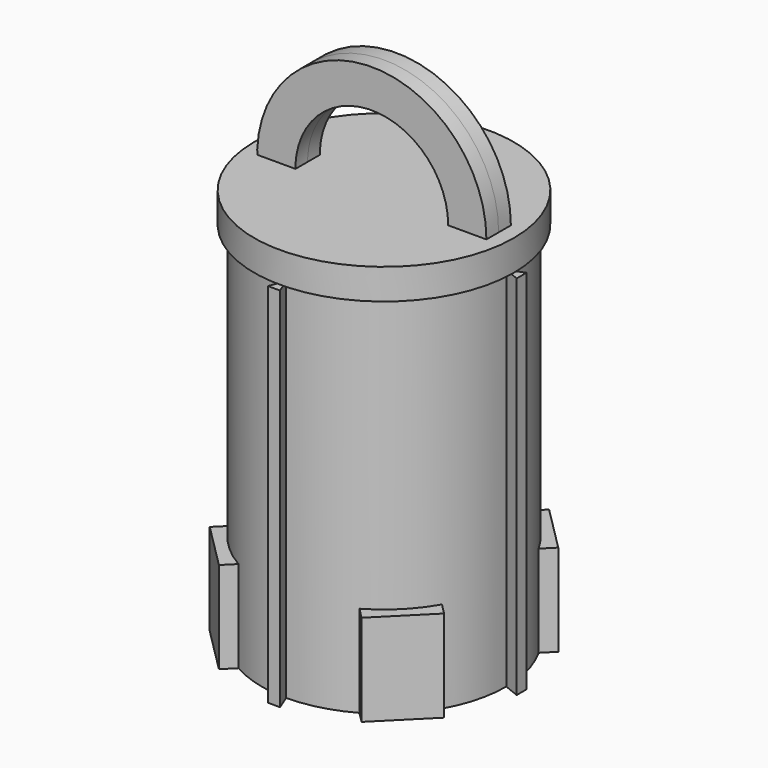
from build123d import *

# Parameters (mm, degrees)
F1_DEPTH  = 152.4
F4_DEPTH  = 38.1
F2_R      = 53.975
F5_DEPTH  = 12.7
F7_DEPTH  = 6.35
F10_DEPTH = 152.4


with BuildPart() as f1:
    # F0 (on Top) → F1 (new body)
    with BuildSketch(Plane.XY):
        with BuildLine():
            Line((0, 0), (50.8, 0))
            ThreePointArc((50.8, 0), (35.921024, 35.921024), (0, 50.8))
            Line((0, 50.8), (0, 0))
        make_face()
        with BuildLine():
            ThreePointArc((-50.8, 0), (-35.921024, -35.921024), (0, -50.8))
            Line((0, -50.8), (0, 0))
            Line((0, 0), (-50.8, 0))
        make_face()
        with BuildLine():
            ThreePointArc((0, -50.8), (35.921024, -35.921024), (50.8, 0))
            Line((50.8, 0), (0, 0))
            Line((0, 0), (0, -50.8))
        make_face()
        with BuildLine():
            Line((0, 0), (0, 50.8))
            ThreePointArc((0, 50.8), (-35.921024, 35.921024), (-50.8, 0))
            Line((-50.8, 0), (0, 0))
        make_face()
    extrude(amount=F1_DEPTH)

    # F3 (on Top) → F4 (join)
    with BuildSketch(Plane.XY):
        Polygon((-39.546579, 20.496579), (-20.496579, 39.546579), (-29.634845, 48.684845), (-48.684845, 29.634845), align=None)
        Polygon((29.634845, 48.684845), (19.783476, 38.833476), (38.833476, 19.783476), (48.684845, 29.634845), align=None)
        Polygon((-29.634845, -48.684845), (-18.642513, -37.692513), (-37.692513, -18.642513), (-48.684845, -29.634845), align=None)
        Polygon((33.867423, -14.817423), (14.817423, -33.867423), (29.634845, -48.684845), (48.684845, -29.634845), align=None)
    extrude(amount=F4_DEPTH)

    # F2 (on face) → F5 (join)
    with BuildSketch(Plane.XY.offset(152.4)):
        Circle(F2_R)
    extrude(amount=F5_DEPTH)


with BuildPart() as f7:
    # F6 (on Front) → F7 (new body)
    with BuildSketch(Plane.XZ):
        with BuildLine():
            ThreePointArc((31.75, 165.1), (-22.45064, 187.55064), (0, 133.35))
            ThreePointArc((0, 133.35), (22.45064, 142.64936), (31.75, 165.1))
        make_face()
        with BuildLine():
            ThreePointArc((47.625, 165.1), (-33.67596, 198.77596), (0, 117.475))
            ThreePointArc((0, 117.475), (33.67596, 131.42404), (47.625, 165.1))
        make_face()
        with BuildLine():
            ThreePointArc((31.75, 165.1), (22.45064, 142.64936), (0, 133.35))
            ThreePointArc((0, 133.35), (-22.45064, 187.55064), (31.75, 165.1))
        make_face(mode=Mode.SUBTRACT)
    extrude(amount=F7_DEPTH)


with BuildPart() as f8_1:
    # F8: instance of F7
    add(f7.part.mirror(Plane.XZ))


with BuildPart() as f10:
    # F9 (on face) → F10 (new body)
    with BuildSketch(Plane(origin=(0, 0, 0), x_dir=(1, 0, 0), z_dir=(0, 0, -1))):
        Polygon((0, -57.15), (0, -50.8), (-2.54, -57.15), align=None)
        Polygon((2.54, -57.15), (0, -50.8), (0, -57.15), align=None)
        Polygon((57.15, 0), (50.8, 0), (57.15, -2.54), align=None)
        Polygon((57.15, 2.54), (50.8, 0), (57.15, 0), align=None)
        Polygon((0, 57.15), (0, 50.8), (2.54, 57.15), align=None)
        Polygon((-2.54, 57.15), (0, 50.8), (0, 57.15), align=None)
        Polygon((-57.15, -2.54), (-50.8, 0), (-57.15, 0), align=None)
        Polygon((-57.15, 0), (-50.8, 0), (-57.15, 2.54), align=None)
    extrude(amount=-F10_DEPTH)


solid = Compound([f1.part, f7.part, f8_1.part, f10.part])
